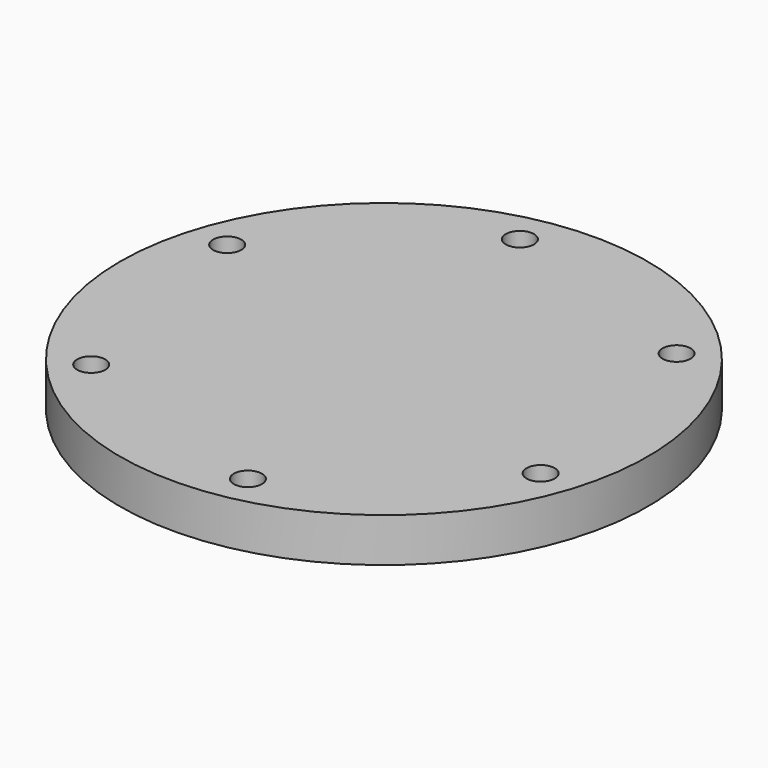
from build123d import *

# Parameters (mm, degrees)
F4_D = 6.4


with BuildPart() as f1:
    # F0 (on Front) → F1 (revolve)
    with BuildSketch(Plane.XZ):
        Polygon((0, -2), (0, 10), (-60, 10), (-60, 0), (-44, 0), (-44, -2), align=None)
    revolve(axis=Axis((0, 0, 4), (0, 0, -1)))

    # F4 (through all)
    with Locations(Plane.XY.offset(10)):
        with Locations((-9.922068, 51.044614), (-49.166966, 16.929544), (-39.244898, -34.11507), (9.922068, -51.044614), (49.166966, -16.929544), (39.244898, 34.11507)):
            Hole(F4_D / 2)


solid = f1.part
